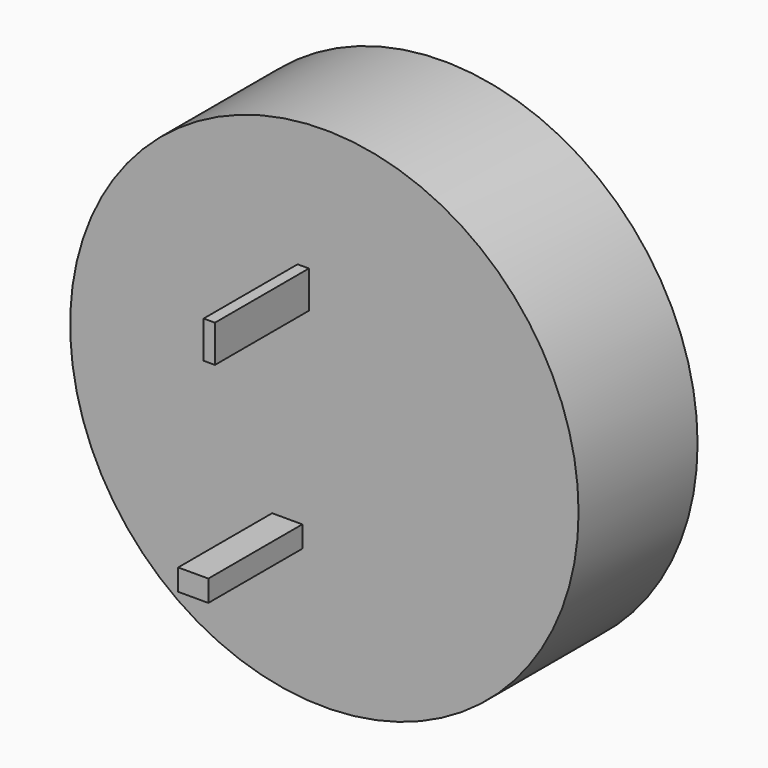
from build123d import *

# Parameters (mm, degrees)
F0_W     = 6.419666
F0_H     = 4.566472
F0_W_2   = 2.407376
F0_H_2   = 7.917076
F1_DEPTH = 25
F2_R     = 54.106628
F3_DEPTH = 31.661607


with BuildPart() as f1:
    # F0 (on Front) → F1 (new body)
    with BuildSketch(Plane.XZ):
        with Locations((58.858804, 25.518937)):
            Rectangle(F0_W, F0_H)
        with Locations((62.269246, 72.243586)):
            Rectangle(F0_W_2, F0_H_2)
    extrude(amount=F1_DEPTH)


with BuildPart() as f3:
    # F2 (on Front) → F3 (new body)
    with BuildSketch(Plane.XZ):
        with Locations((66.762805, 49.193762)):
            Circle(F2_R)
    extrude(amount=-F3_DEPTH)


solid = Compound([f1.part, f3.part])
